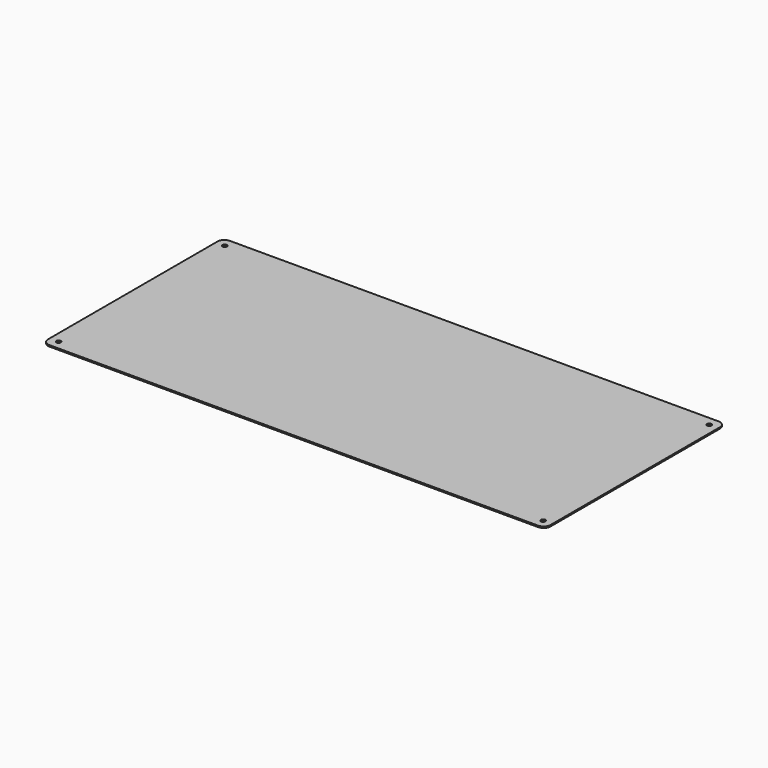
from build123d import *

# Parameters (mm, degrees)
PAD_DEPTH       = 1
SKETCH001_R     = 1.6
POCKET_DEPTH    = 10
SKETCH004_R     = 1.6
POCKET001_DEPTH = 5
SKETCH002_R     = 1.6
POCKET002_DEPTH = 5
SKETCH003_R     = 1.6
POCKET003_DEPTH = 5


with BuildPart() as part:
    # Sketch → Pad (new body)
    with BuildSketch(Plane.XY):
        with BuildLine():
            Line((-181.5, 76.5), (-181.5, -76.5))
            ThreePointArc((-181.5, -76.5), (-180.035534, -80.035534), (-176.5, -81.5))
            Line((-176.5, -81.5), (176.5, -81.5))
            ThreePointArc((176.5, -81.5), (180.035534, -80.035534), (181.5, -76.5))
            Line((181.5, -76.5), (181.5, 76.5))
            ThreePointArc((181.5, 76.5), (180.035534, 80.035534), (176.5, 81.5))
            Line((176.5, 81.5), (-176.5, 81.5))
            ThreePointArc((-176.5, 81.5), (-180.035534, 80.035534), (-181.5, 76.5))
        make_face()
    extrude(amount=PAD_DEPTH)

    # Sketch001 → Pocket (cut)
    with BuildSketch(Plane.XY.offset(2)):
        with Locations((-175, 75)):
            Circle(SKETCH001_R)
    extrude(amount=-POCKET_DEPTH, mode=Mode.SUBTRACT)

    # Sketch004 → Pocket001 (cut)
    with BuildSketch(Plane.XY.offset(2)):
        with Locations((175, -75)):
            Circle(SKETCH004_R)
    extrude(amount=-POCKET001_DEPTH, mode=Mode.SUBTRACT)

    # Sketch002 → Pocket002 (cut)
    with BuildSketch(Plane.XY.offset(2)):
        with Locations((-175, -75)):
            Circle(SKETCH002_R)
    extrude(amount=-POCKET002_DEPTH, mode=Mode.SUBTRACT)

    # Sketch003 → Pocket003 (cut)
    with BuildSketch(Plane.XY.offset(2)):
        with Locations((175, 75)):
            Circle(SKETCH003_R)
    extrude(amount=-POCKET003_DEPTH, mode=Mode.SUBTRACT)


solid = part.part
